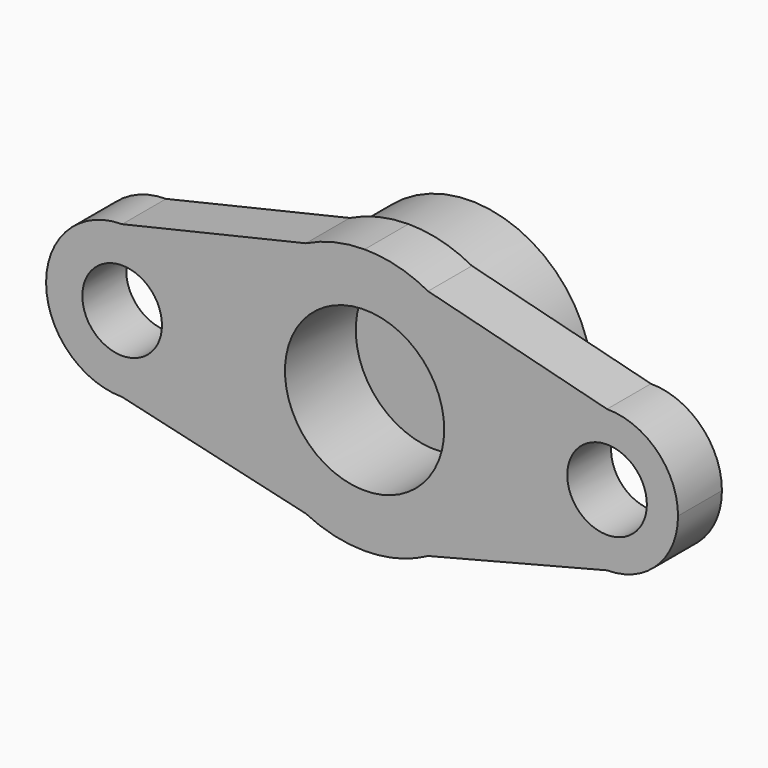
from build123d import *

# Parameters (mm, degrees)
F1_DEPTH = 6.2
F2_R     = 13.75
F3_DEPTH = 8.8
F4_R     = 4.5
F4_R_2   = 9
F5_R     = 4.5
F6_DEPTH = 10


with BuildPart() as f1:
    # F0 (on Front) → F1 (new body)
    with BuildSketch(Plane.XZ):
        with BuildLine():
            Line((0, 0), (15, 0))
            ThreePointArc((15, 0), (12.8954858771, 7.662013051), (7.1724741341, 13.1740508119))
            Line((7.1724741341, 13.1740508119), (0, 15))
            Line((0, 15), (-6.6466510201, 13.4470082255))
            ThreePointArc((-6.6466510201, 13.4470082255), (-12.7416593366, 7.9151827111), (-15, 0))
            Line((-15, 0), (0, 0))
        make_face()
        with BuildLine():
            Line((19.3797829829, 0), (15, 0))
            ThreePointArc((15, 0), (12.8954858771, -7.662013051), (7.1724741341, -13.1740508119))
            Line((7.1724741341, -13.1740508119), (27.4034789598, -8.023695977))
            ThreePointArc((27.4034789598, -8.023695977), (21.7298691243, -5.6736098355), (19.3797829829, 0))
        make_face()
        with BuildLine():
            ThreePointArc((7.1724741341, -13.1740508119), (12.8954858771, -7.662013051), (15, 0))
            Line((15, 0), (0, 0))
            Line((0, 0), (-15, 0))
            ThreePointArc((-15, 0), (-12.7416593366, -7.9151827111), (-6.6466510201, -13.4470082255))
            Line((-6.6466510201, -13.4470082255), (0, -15))
            Line((0, -15), (7.1724741341, -13.1740508119))
        make_face()
        with BuildLine():
            ThreePointArc((7.1724741341, 13.1740508119), (12.8954858771, 7.662013051), (15, 0))
            Line((15, 0), (19.3797829829, 0))
            ThreePointArc((19.3797829829, 0), (21.7298691243, 5.6736098355), (27.4034789598, 8.023695977))
            Line((27.4034789598, 8.023695977), (7.1724741341, 13.1740508119))
        make_face()
        with BuildLine():
            Line((0, 15), (7.1724741341, 13.1740508119))
            ThreePointArc((7.1724741341, 13.1740508119), (3.7006241245, 14.5363468963), (0, 15))
        make_face()
        with BuildLine():
            ThreePointArc((0, -15), (3.7006241245, -14.5363468963), (7.1724741341, -13.1740508119))
            Line((7.1724741341, -13.1740508119), (0, -15))
        make_face()
        with BuildLine():
            ThreePointArc((27.4034789598, 8.023695977), (21.7298691243, 5.6736098355), (19.3797829829, 0))
            ThreePointArc((19.3797829829, 0), (21.7298691243, -5.6736098355), (27.4034789598, -8.023695977))
            ThreePointArc((27.4034789598, -8.023695977), (33.0770887953, -5.6736098355), (35.4271749368, 0))
            ThreePointArc((35.4271749368, 0), (33.0770887953, 5.6736098355), (27.4034789598, 8.023695977))
        make_face()
        with BuildLine():
            Line((-6.6466510201, 13.4470082255), (0, 15))
            ThreePointArc((0, 15), (-3.4128343512, 14.6065930898), (-6.6466510201, 13.4470082255))
        make_face()
        with BuildLine():
            ThreePointArc((-6.6466510201, -13.4470082255), (-3.4128343512, -14.6065930898), (0, -15))
            Line((0, -15), (-6.6466510201, -13.4470082255))
        make_face()
        with BuildLine():
            Line((-18.8063090901, 0), (-15, 0))
            ThreePointArc((-15, 0), (-12.7416593366, 7.9151827111), (-6.6466510201, 13.4470082255))
            Line((-6.6466510201, 13.4470082255), (-27.4034789598, 8.5971698697))
            ThreePointArc((-27.4034789598, 8.5971698697), (-21.3243618459, 6.0791171139), (-18.8063090901, 0))
        make_face()
        with BuildLine():
            ThreePointArc((-6.6466510201, -13.4470082255), (-12.7416593366, -7.9151827111), (-15, 0))
            Line((-15, 0), (-18.8063090901, 0))
            ThreePointArc((-18.8063090901, 0), (-21.3243618459, -6.0791171139), (-27.4034789598, -8.5971698697))
            Line((-27.4034789598, -8.5971698697), (-6.6466510201, -13.4470082255))
        make_face()
        with BuildLine():
            ThreePointArc((-27.4034789598, -8.5971698697), (-21.3243618459, -6.0791171139), (-18.8063090901, 0))
            ThreePointArc((-18.8063090901, 0), (-21.3243618459, 6.0791171139), (-27.4034789598, 8.5971698697))
            ThreePointArc((-27.4034789598, 8.5971698697), (-36.0006488296, 0), (-27.4034789598, -8.5971698697))
        make_face()
    extrude(amount=F1_DEPTH)

    # F2 (on face) → F3 (join)
    with BuildSketch(Plane(origin=(0, 0, 0), x_dir=(-1, 0, 0), z_dir=(0, 1, 0))):
        Circle(F2_R)
    extrude(amount=F3_DEPTH)

    # F4 (on face) + F5 (on face) → F6 (cut)
    with BuildSketch(Plane.XZ.offset(6.2)):
        with Locations((27.4034789598, 0)):
            Circle(F4_R)
        Circle(F4_R_2)
    with BuildSketch(Plane.XZ.offset(6.2)):
        with Locations((-27.4034789598, 0)):
            Circle(F5_R)
    extrude(amount=-F6_DEPTH, mode=Mode.SUBTRACT)


solid = f1.part
